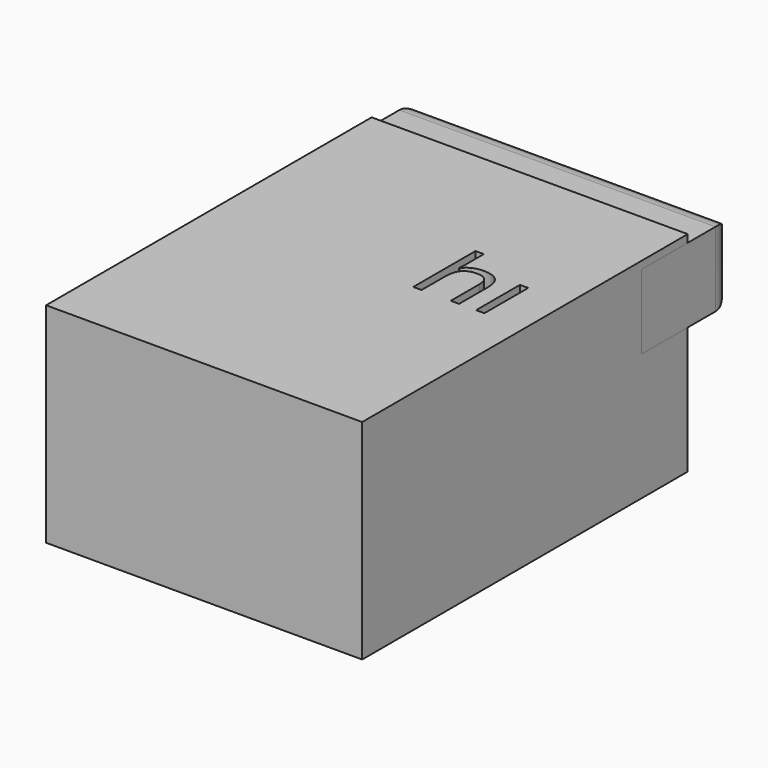
from build123d import *

# Parameters (mm, degrees)
F2_DEPTH = 76.5611305833
F0_W     = 13.9886513352
F0_H     = 18.059886992
F3_R     = 5.6044980923
F4_W     = 2.0113031108
F4_H     = 13.2730503942
F5_DEPTH = 12.7252740785


with BuildPart() as f2:
    # F1 (on face) → F2 (new body)
    with BuildSketch(Plane.YZ):
        Polygon((-27.5792516768, 50.6441742182), (-27.5792516768, 0), (70.9878802299, 0), (70.9878802299, 30.7358391583), (56.9992288947, 30.7358391583), (56.9992288947, 48.7957261503), (70.9878802299, 48.7957261503), (70.9878802299, 50.6441742182), align=None)
    extrude(amount=F2_DEPTH)

    # F4 (on face) → F5 (cut)
    with BuildSketch(Plane.XY.offset(50.6441742182)):
        with BuildLine():
            Line((58.6242635295, 30.2465461298), (58.6242635295, 21.6587856412))
            Line((58.6242635295, 21.6587856412), (60.6355666403, 21.6587856412))
            Line((60.6355666403, 21.6587856412), (60.6355666403, 30.3163023071))
            add(Edge.make_bspline(
                [(59.4167712099, 33.992065314), (60.6355666403, 32.8352753746), (60.6355666403, 30.3163023071)],
                knots=[0, 0, 0, 1, 1, 1], degree=2))
            add(Edge.make_bspline(
                [(55.764260262, 35.1488552535), (58.1979757796, 35.1488552535), (59.4167712099, 33.992065314)],
                knots=[0, 0, 0, 1, 1, 1], degree=2))
            add(Edge.make_bspline(
                [(53.2646639104, 34.5985565218), (54.3613860306, 35.1488552535), (55.764260262, 35.1488552535)],
                knots=[0, 0, 0, 1, 1, 1], degree=2))
            add(Edge.make_bspline(
                [(51.5750142836, 33.0910480245), (52.1679417903, 34.0482577901), (53.2646639104, 34.5985565218)],
                knots=[0, 0, 0, 1, 1, 1], degree=2))
            Line((51.5750142836, 33.0910480245), (51.454878645, 33.0910480245))
            add(Edge.make_bspline(
                [(51.5517622245, 34.8000743672), (51.5517622245, 33.7692330811), (51.454878645, 33.0910480245)],
                knots=[0, 0, 0, 1, 1, 1], degree=2))
            Line((51.5517622245, 34.8000743672), (51.5517622245, 40.5045795293))
            Line((51.5517622245, 40.5045795293), (49.5404591137, 40.5045795293))
            Line((49.5404591137, 40.5045795293), (49.5404591137, 21.6587856412))
            Line((49.5404591137, 21.6587856412), (51.5517622245, 21.6587856412))
            Line((51.5517622245, 21.6587856412), (51.5517622245, 28.599525278))
            add(Edge.make_bspline(
                [(52.514785005, 32.3276054179), (51.5517622245, 31.1882545227), (51.5517622245, 28.599525278)],
                knots=[0, 0, 0, 1, 1, 1], degree=2))
            add(Edge.make_bspline(
                [(55.570493103, 33.466956313), (53.4778077854, 33.466956313), (52.514785005, 32.3276054179)],
                knots=[0, 0, 0, 1, 1, 1], degree=2))
            add(Edge.make_bspline(
                [(57.8860106535, 32.6666979462), (57.1477577776, 33.466956313), (55.570493103, 33.466956313)],
                knots=[0, 0, 0, 1, 1, 1], degree=2))
            add(Edge.make_bspline(
                [(58.6242635295, 30.2465461298), (58.6242635295, 31.8664395794), (57.8860106535, 32.6666979462)],
                knots=[0, 0, 0, 1, 1, 1], degree=2))
        make_face()
        with Locations((65.7684586832, 28.2953108383)):
            Rectangle(F4_W, F4_H)
    extrude(amount=-F5_DEPTH, mode=Mode.SUBTRACT)


with BuildPart() as f2b:
    # F0 (on Right) → F2, piece 2 (new body)
    with BuildSketch(Plane.YZ):
        with Locations((77.9822058976, 39.7657826543)):
            Rectangle(F0_W, F0_H)
        with Locations((63.9935545623, 39.7657826543)):
            Rectangle(F0_W, F0_H)
    extrude(amount=F2_DEPTH)

    # F3
    f3_edges = [f2b.edges().sort_by_distance(p)[0] for p in [
        (38.280565, 84.976532, 30.735839),
        (38.280565, 84.976532, 48.795726),
        (76.561131, 84.976532, 39.765783),
        (0, 84.976532, 39.765783),
    ]]
    fillet(f3_edges, radius=F3_R)


solid = Compound([f2.part, f2b.part])
